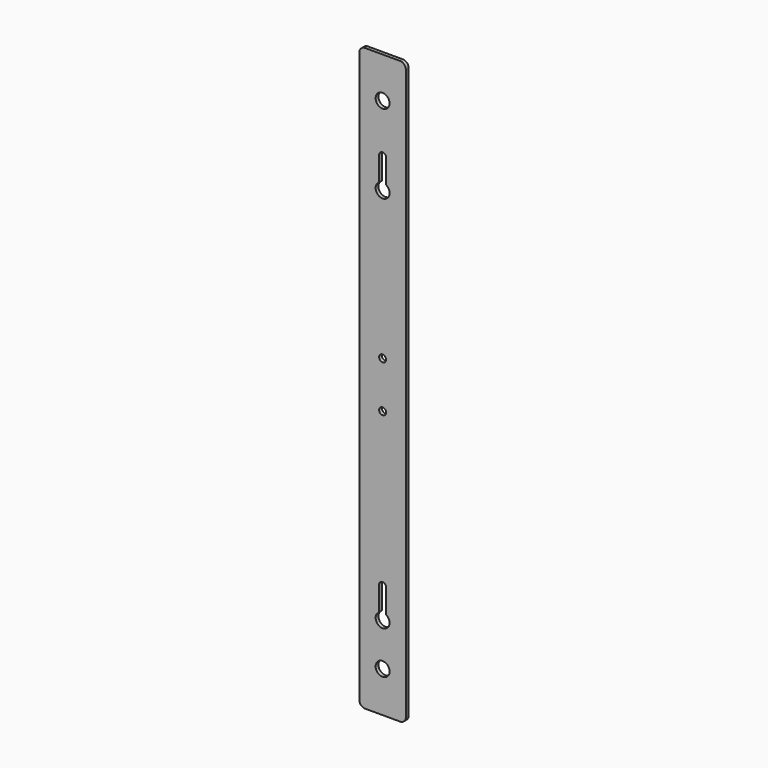
from build123d import *

# Parameters (mm, degrees)
F0_W      = 40
F0_H      = 500
F1_DEPTH  = 3
F3_D      = 12
F5_D      = 12
F7_DEPTH  = 6
F8_D      = 12
F10_DEPTH = 6
F12_D     = 6
F13_R     = 5


with BuildPart() as f1:
    # F0 (on Front) → F1 (new body)
    with BuildSketch(Plane.XZ):
        Rectangle(F0_W, F0_H)
    extrude(amount=F1_DEPTH)

    # F3 (through all)
    with Locations(Plane.XZ.offset(3)):
        with Locations((0, -215), (0, 215)):
            Hole(F3_D / 2)

    # F5 (through all)
    with Locations(Plane.XZ.offset(3)):
        with Locations((0, 147)):
            Hole(F5_D / 2)

    # F6 (on face) → F7 (cut)
    with BuildSketch(Plane.XZ.offset(3)):
        with BuildLine():
            ThreePointArc((-3, 153), (0, 150), (3, 153))
            Line((3, 153), (3, 173))
            ThreePointArc((3, 173), (0, 176), (-3, 173))
            Line((-3, 173), (-3, 153))
        make_face()
    extrude(amount=-F7_DEPTH, mode=Mode.SUBTRACT)

    # F8 (through all)
    with Locations(Plane.XZ.offset(3)):
        with Locations((0, -178.25)):
            Hole(F8_D / 2)

    # F9 (on face) → F10 (cut)
    with BuildSketch(Plane.XZ.offset(3)):
        with BuildLine():
            ThreePointArc((-3, -172.25), (0, -175.25), (3, -172.25))
            Line((3, -172.25), (3, -152.25))
            ThreePointArc((3, -152.25), (0, -149.25), (-3, -152.25))
            Line((-3, -152.25), (-3, -172.25))
        make_face()
    extrude(amount=-F10_DEPTH, mode=Mode.SUBTRACT)

    # F12 (through all)
    with Locations(Plane.XZ.offset(3)):
        with Locations((0, 20), (0, -20)):
            Hole(F12_D / 2)

    # F13
    f13_edges = [f1.edges().sort_by_distance(p)[0] for p in [
        (-20, -1.5, -250),
        (20, -1.5, -250),
        (20, -1.5, 250),
        (-20, -1.5, 250),
    ]]
    fillet(f13_edges, radius=F13_R)


solid = f1.part
